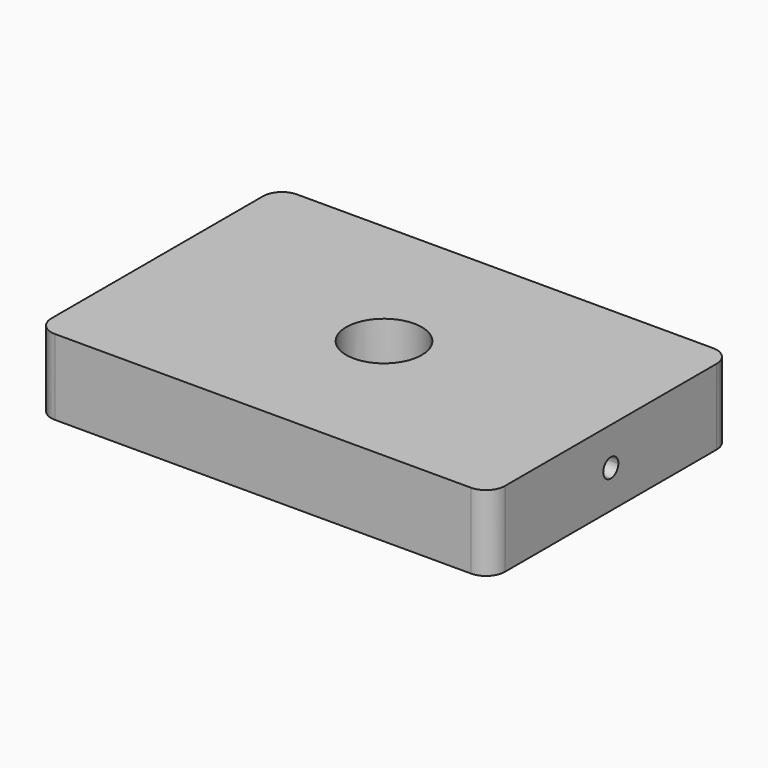
from build123d import *

# Parameters (mm, degrees)
F1_DEPTH = 25.4
F2_R     = 12.7
F3_DEPTH = 25.401
F5_DEPTH = 152.401


with BuildPart() as f1:
    # F0 (on Top) → F1 (new body)
    with BuildSketch(Plane.XY):
        with BuildLine():
            Line((69.85, 50.8), (-69.85, 50.8))
            ThreePointArc((-69.85, 50.8), (-74.340128, 48.940128), (-76.2, 44.45))
            Line((-76.2, 44.45), (-76.2, -44.45))
            ThreePointArc((-76.2, -44.45), (-74.340128, -48.940128), (-69.85, -50.8))
            Line((-69.85, -50.8), (69.85, -50.8))
            ThreePointArc((69.85, -50.8), (74.340128, -48.940128), (76.2, -44.45))
            Line((76.2, -44.45), (76.2, 44.45))
            ThreePointArc((76.2, 44.45), (74.340128, 48.940128), (69.85, 50.8))
        make_face()
    extrude(amount=F1_DEPTH)

    # F2 (on face) → F3 (cut, through all)
    with BuildSketch(Plane.XY.offset(25.4)):
        Circle(F2_R)
    extrude(amount=-F3_DEPTH, mode=Mode.SUBTRACT)

    # F4 (on face) → F5 (cut, through all)
    with BuildSketch(Plane(origin=(-76.2, 0, 0), x_dir=(0, -1, 0), z_dir=(-1, 0, 0))):
        with BuildLine():
            ThreePointArc((-3.175, 12.7), (-2.245064, 10.454936), (0, 9.525))
            Line((0, 9.525), (0, 12.7))
            Line((0, 12.7), (-3.175, 12.7))
        make_face()
        with BuildLine():
            Line((0, 12.7), (0, 9.525))
            ThreePointArc((0, 9.525), (2.245064, 10.454936), (3.175, 12.7))
            ThreePointArc((3.175, 12.7), (2.245064, 14.945064), (0, 15.875))
            Line((0, 15.875), (0, 12.7))
        make_face()
        with BuildLine():
            Line((-3.175, 12.7), (0, 12.7))
            Line((0, 12.7), (0, 15.875))
            ThreePointArc((0, 15.875), (-2.245064, 14.945064), (-3.175, 12.7))
        make_face()
    extrude(amount=-F5_DEPTH, mode=Mode.SUBTRACT)


solid = f1.part
